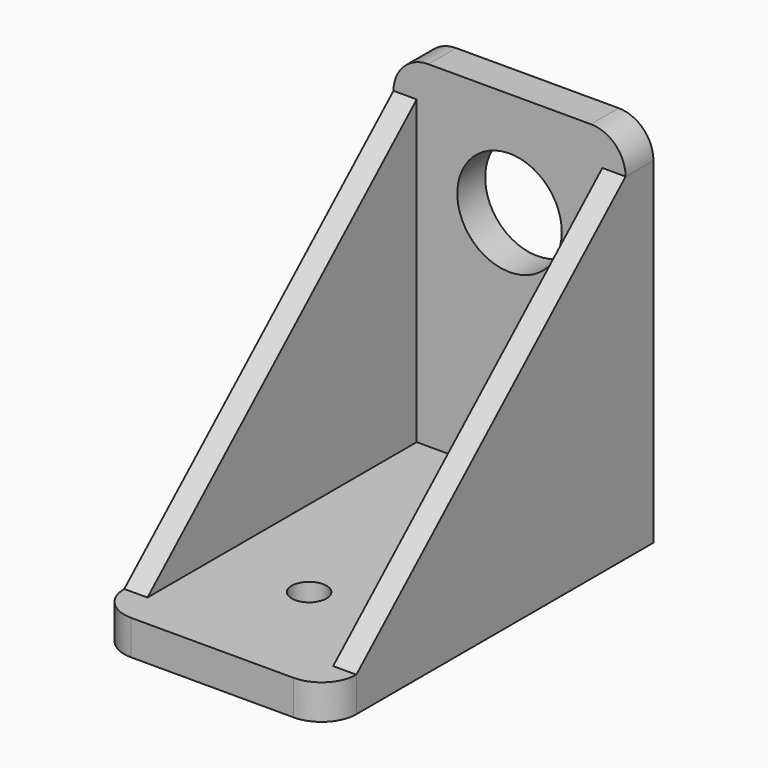
from build123d import *

# Parameters (mm, degrees)
F1_DEPTH  = 3
F3_DEPTH  = 3
F5_DEPTH  = 2
F7_DEPTH  = 2
F8_R      = 1.5
F9_DEPTH  = 25
F10_R     = 4.5
F11_DEPTH = 25


with BuildPart() as f1:
    # F0 (on Top) → F1 (new body)
    with BuildSketch(Plane.XY):
        with BuildLine():
            Line((20, 0), (0, 0))
            Line((0, 0), (0, -29))
            ThreePointArc((0, -29), (0.87868, -31.12132), (3, -32))
            Line((3, -32), (17, -32))
            ThreePointArc((17, -32), (19.12132, -31.12132), (20, -29))
            Line((20, -29), (20, 0))
        make_face()
    extrude(amount=F1_DEPTH)

    # F2 (on face) → F3 (join)
    with BuildSketch(Plane(origin=(0, 0, 0), x_dir=(-1, 0, 0), z_dir=(0, 1, 0))):
        with BuildLine():
            Line((-20, 0), (0, 0))
            Line((0, 0), (0, 29))
            ThreePointArc((0, 29), (-0.87868, 31.12132), (-3, 32))
            Line((-3, 32), (-17, 32))
            ThreePointArc((-17, 32), (-19.12132, 31.12132), (-20, 29))
            Line((-20, 29), (-20, 0))
        make_face()
    extrude(amount=F3_DEPTH)

    # F4 (on face) → F5 (join)
    with BuildSketch(Plane(origin=(0, 0, 0), x_dir=(0, -1, 0), z_dir=(-1, 0, 0))):
        Polygon((29, 3), (0, 29), (0, 3), align=None)
    extrude(amount=-F5_DEPTH)

    # F6 (on face) → F7 (join)
    with BuildSketch(Plane.YZ.offset(20)):
        Polygon((0, 3), (0, 29), (-29, 3), align=None)
    extrude(amount=-F7_DEPTH)

    # F8 (on face) → F9 (cut)
    with BuildSketch(Plane.XY.offset(3)):
        with Locations((10, -21.589138)):
            Circle(F8_R)
    extrude(amount=-F9_DEPTH, mode=Mode.SUBTRACT)

    # F10 (on face) → F11 (cut)
    with BuildSketch(Plane.XZ):
        with Locations((10, 23)):
            Circle(F10_R)
    extrude(amount=-F11_DEPTH, mode=Mode.SUBTRACT)


solid = f1.part
